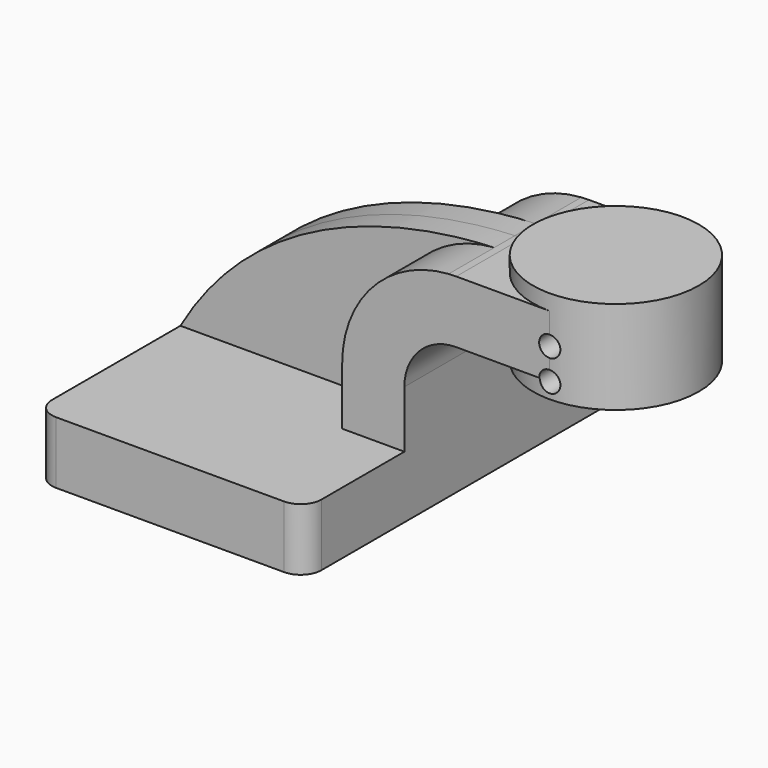
from build123d import *

# Parameters (mm, degrees)
F1_DEPTH = 63.5
F2_DEPTH = 25.4
F3_DEPTH = 7.9375
F0_W     = 25.4
F0_H     = 19.05
F4_DEPTH = 25.4
F6_R     = 6.35
F7_D     = 6.35
F7_DEPTH = 63.501
F8_D     = 6.35


with BuildPart() as f1:
    # F0 (on Front) → F1 (new body, symmetric)
    with BuildSketch(Plane.XZ):
        Polygon((-41.275, -9.525), (41.275, -9.525), (41.275, 9.525), (22.225, 9.525), (-41.275, 9.525), align=None)
    extrude(amount=F1_DEPTH, both=True)

    # F0 (on Front) → F2 (join, symmetric)
    with BuildSketch(Plane.XZ):
        with BuildLine():
            Line((22.225, 9.525), (41.275, 9.525))
            Line((41.275, 9.525), (41.275, 27.0002))
            ThreePointArc((41.275, 27.0002), (45.9246798487, 38.2255201513), (57.15, 42.8752))
            Line((57.15, 42.8752), (60.325, 42.8752))
            Line((60.325, 42.8752), (60.325, 61.9252))
            Line((60.325, 61.9252), (57.15, 61.9252))
            add(Edge.make_bspline(
                [(54.8248257863, 61.8477133959), (55.6198643165, 61.8804240795), (56.3953378733, 61.9059851168), (57.15, 61.9252)],
                knots=[108.1484579667, 108.1484579667, 108.1484579667, 108.1484579667, 111.5045361635, 111.5045361635, 111.5045361635, 111.5045361635], degree=3))
            ThreePointArc((54.8248257863, 61.8477133959), (31.6454677125, 50.8596731248), (22.225, 27.0002))
            Line((22.225, 27.0002), (22.225, 9.525))
        make_face()
    extrude(amount=F2_DEPTH, both=True)

    # F0 (on Front) → F3 (join, symmetric)
    with BuildSketch(Plane.XZ):
        with BuildLine():
            add(Edge.make_bspline(
                [(-41.275, 9.525), (-16.7316793504, 52.3151372585), (29.204984405, 60.7936229397), (54.8248257863, 61.8477133959)],
                knots=[0, 0, 0, 0, 108.1484579667, 108.1484579667, 108.1484579667, 108.1484579667], degree=3))
            Line((-41.275, 9.525), (22.225, 9.525))
            Line((22.225, 9.525), (22.225, 27.0002))
            ThreePointArc((22.225, 27.0002), (31.6454677125, 50.8596731248), (54.8248257863, 61.8477133959))
        make_face()
    extrude(amount=F3_DEPTH, both=True)

    # F0 (on Front) → F4 (join, symmetric)
    with BuildSketch(Plane.XZ):
        with Locations((73.025, 52.4002)):
            Rectangle(F0_W, F0_H)
    extrude(amount=F4_DEPTH, both=True)

    # F0 (on Front) → F5 (revolve)
    with BuildSketch(Plane.XZ):
        Polygon((85.725, 61.9252), (85.725, 42.8752), (85.725, 38.1), (111.125, 38.1), (111.125, 66.675), (85.725, 66.675), align=None)
    revolve(axis=Axis((85.725, 0, 52.3875), (0, 0, -1)))

    # F6
    f6_edges = [f1.edges().sort_by_distance(p)[0] for p in [
        (-41.275, -63.5, 0),
        (41.275, -63.5, 0),
        (41.275, 63.5, 0),
        (-41.275, 63.5, 0),
    ]]
    fillet(f6_edges, radius=F6_R)

    # F7 (through all, one way)
    with BuildSketch(Plane.XZ):
        with Locations((85.725, 52.3875), (85.725, 42.8752)):
            Circle(F7_D / 2)
    extrude(amount=-F7_DEPTH, mode=Mode.SUBTRACT)

    # F8 (through all)
    with Locations(Plane(origin=(0, 0, 0), x_dir=(1, 0, 0), z_dir=(0, 1, 0))):
        with Locations((85.725, -52.3875), (85.725, -42.8752)):
            Hole(F8_D / 2)


solid = f1.part
